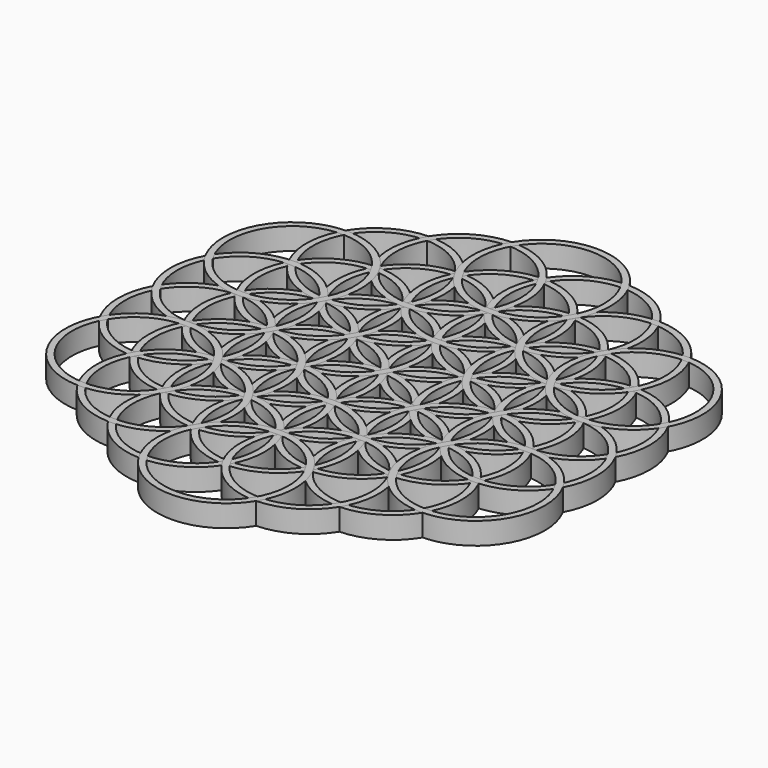
from build123d import *

# Parameters (mm, degrees)
F1_R      = 31.5
F1_R_2    = 28.5
F2_DEPTH  = 10
F3_R      = 31.5
F3_R_2    = 28.5
F4_DEPTH  = 10
F5_COUNT  = 6
F6_R      = 31.5
F6_R_2    = 28.5
F7_DEPTH  = 10
F8_COUNT  = 6
F9_R      = 31.5
F9_R_2    = 28.5
F10_DEPTH = 10
F11_COUNT = 6
F12_R     = 31.5
F12_R_2   = 28.5
F13_DEPTH = 10
F14_COUNT = 6
F15_R     = 31.5
F15_R_2   = 28.5
F16_DEPTH = 10
F17_COUNT = 6
F18_R     = 31.5
F18_R_2   = 28.5
F19_DEPTH = 10
F20_COUNT = 6


with BuildPart() as f2:
    # F1 (on Top) → F2 (new body)
    with BuildSketch(Plane.XY):
        Circle(F1_R)
        Circle(F1_R_2, mode=Mode.SUBTRACT)
    extrude(amount=F2_DEPTH)


with BuildPart() as f4:
    # F3 (on Top) → F4 (new body)
    with BuildSketch(Plane.XY):
        with Locations((0, 30)):
            Circle(F3_R)
        with Locations((0, 30)):
            Circle(F3_R_2, mode=Mode.SUBTRACT)
    extrude(amount=F4_DEPTH)


with BuildPart() as f5_1:
    # F5: instance of F4
    add(f4.part.rotate(Axis((0, 0, -4.683914), (0, 0, -1)), 1 * 360 / F5_COUNT))


with BuildPart() as f5_2:
    # F5: instance of F4
    add(f4.part.rotate(Axis((0, 0, -4.683914), (0, 0, -1)), 2 * 360 / F5_COUNT))


with BuildPart() as f5_3:
    # F5: instance of F4
    add(f4.part.rotate(Axis((0, 0, -4.683914), (0, 0, -1)), 3 * 360 / F5_COUNT))


with BuildPart() as f5_4:
    # F5: instance of F4
    add(f4.part.rotate(Axis((0, 0, -4.683914), (0, 0, -1)), 4 * 360 / F5_COUNT))


with BuildPart() as f5_5:
    # F5: instance of F4
    add(f4.part.rotate(Axis((0, 0, -4.683914), (0, 0, -1)), 5 * 360 / F5_COUNT))


with BuildPart() as f7:
    # F6 (on Top) → F7 (new body)
    with BuildSketch(Plane.XY):
        with Locations((-25.980762, 45)):
            Circle(F6_R)
        with Locations((-25.980762, 45)):
            Circle(F6_R_2, mode=Mode.SUBTRACT)
    extrude(amount=F7_DEPTH)


with BuildPart() as f8_1:
    # F8: instance of F7
    add(f7.part.rotate(Axis((0, 0, -4.683914), (0, 0, -1)), 1 * 360 / F8_COUNT))


with BuildPart() as f8_2:
    # F8: instance of F7
    add(f7.part.rotate(Axis((0, 0, -4.683914), (0, 0, -1)), 2 * 360 / F8_COUNT))


with BuildPart() as f8_3:
    # F8: instance of F7
    add(f7.part.rotate(Axis((0, 0, -4.683914), (0, 0, -1)), 3 * 360 / F8_COUNT))


with BuildPart() as f8_4:
    # F8: instance of F7
    add(f7.part.rotate(Axis((0, 0, -4.683914), (0, 0, -1)), 4 * 360 / F8_COUNT))


with BuildPart() as f8_5:
    # F8: instance of F7
    add(f7.part.rotate(Axis((0, 0, -4.683914), (0, 0, -1)), 5 * 360 / F8_COUNT))


with BuildPart() as f10:
    # F9 (on Top) → F10 (new body)
    with BuildSketch(Plane.XY):
        with Locations((-51.961524, 30)):
            Circle(F9_R)
        with Locations((-51.961524, 30)):
            Circle(F9_R_2, mode=Mode.SUBTRACT)
    extrude(amount=F10_DEPTH)


with BuildPart() as f11_1:
    # F11: instance of F10
    add(f10.part.rotate(Axis((0, 0, -4.683914), (0, 0, -1)), 1 * 360 / F11_COUNT))


with BuildPart() as f11_2:
    # F11: instance of F10
    add(f10.part.rotate(Axis((0, 0, -4.683914), (0, 0, -1)), 2 * 360 / F11_COUNT))


with BuildPart() as f11_3:
    # F11: instance of F10
    add(f10.part.rotate(Axis((0, 0, -4.683914), (0, 0, -1)), 3 * 360 / F11_COUNT))


with BuildPart() as f11_4:
    # F11: instance of F10
    add(f10.part.rotate(Axis((0, 0, -4.683914), (0, 0, -1)), 4 * 360 / F11_COUNT))


with BuildPart() as f11_5:
    # F11: instance of F10
    add(f10.part.rotate(Axis((0, 0, -4.683914), (0, 0, -1)), 5 * 360 / F11_COUNT))


with BuildPart() as f13:
    # F12 (on Top) → F13 (new body)
    with BuildSketch(Plane.XY):
        with Locations((-51.961524, 60)):
            Circle(F12_R)
        with Locations((-51.961524, 60)):
            Circle(F12_R_2, mode=Mode.SUBTRACT)
    extrude(amount=F13_DEPTH)


with BuildPart() as f14_1:
    # F14: instance of F13
    add(f13.part.rotate(Axis((0, 0, -4.683914), (0, 0, -1)), 1 * 360 / F14_COUNT))


with BuildPart() as f14_2:
    # F14: instance of F13
    add(f13.part.rotate(Axis((0, 0, -4.683914), (0, 0, -1)), 2 * 360 / F14_COUNT))


with BuildPart() as f14_3:
    # F14: instance of F13
    add(f13.part.rotate(Axis((0, 0, -4.683914), (0, 0, -1)), 3 * 360 / F14_COUNT))


with BuildPart() as f14_4:
    # F14: instance of F13
    add(f13.part.rotate(Axis((0, 0, -4.683914), (0, 0, -1)), 4 * 360 / F14_COUNT))


with BuildPart() as f14_5:
    # F14: instance of F13
    add(f13.part.rotate(Axis((0, 0, -4.683914), (0, 0, -1)), 5 * 360 / F14_COUNT))


with BuildPart() as f16:
    # F15 (on Top) → F16 (new body)
    with BuildSketch(Plane.XY):
        with Locations((-25.980762, 75)):
            Circle(F15_R)
        with Locations((-25.980762, 75)):
            Circle(F15_R_2, mode=Mode.SUBTRACT)
    extrude(amount=F16_DEPTH)


with BuildPart() as f17_1:
    # F17: instance of F16
    add(f16.part.rotate(Axis((0, 0, -4.683914), (0, 0, -1)), 1 * 360 / F17_COUNT))


with BuildPart() as f17_2:
    # F17: instance of F16
    add(f16.part.rotate(Axis((0, 0, -4.683914), (0, 0, -1)), 2 * 360 / F17_COUNT))


with BuildPart() as f17_3:
    # F17: instance of F16
    add(f16.part.rotate(Axis((0, 0, -4.683914), (0, 0, -1)), 3 * 360 / F17_COUNT))


with BuildPart() as f17_4:
    # F17: instance of F16
    add(f16.part.rotate(Axis((0, 0, -4.683914), (0, 0, -1)), 4 * 360 / F17_COUNT))


with BuildPart() as f17_5:
    # F17: instance of F16
    add(f16.part.rotate(Axis((0, 0, -4.683914), (0, 0, -1)), 5 * 360 / F17_COUNT))


with BuildPart() as f19:
    # F18 (on Top) → F19 (new body)
    with BuildSketch(Plane.XY):
        with Locations((0, 90)):
            Circle(F18_R)
        with Locations((0, 90)):
            Circle(F18_R_2, mode=Mode.SUBTRACT)
    extrude(amount=F19_DEPTH)


with BuildPart() as f20_1:
    # F20: instance of F19
    add(f19.part.rotate(Axis((0, 0, -4.683914), (0, 0, -1)), 1 * 360 / F20_COUNT))


with BuildPart() as f20_2:
    # F20: instance of F19
    add(f19.part.rotate(Axis((0, 0, -4.683914), (0, 0, -1)), 2 * 360 / F20_COUNT))


with BuildPart() as f20_3:
    # F20: instance of F19
    add(f19.part.rotate(Axis((0, 0, -4.683914), (0, 0, -1)), 3 * 360 / F20_COUNT))


with BuildPart() as f20_4:
    # F20: instance of F19
    add(f19.part.rotate(Axis((0, 0, -4.683914), (0, 0, -1)), 4 * 360 / F20_COUNT))


with BuildPart() as f20_5:
    # F20: instance of F19
    add(f19.part.rotate(Axis((0, 0, -4.683914), (0, 0, -1)), 5 * 360 / F20_COUNT))


solid = Compound([f2.part, f4.part, f5_1.part, f5_2.part, f5_3.part, f5_4.part, f5_5.part, f7.part, f8_1.part, f8_2.part, f8_3.part, f8_4.part, f8_5.part, f10.part, f11_1.part, f11_2.part, f11_3.part, f11_4.part, f11_5.part, f13.part, f14_1.part, f14_2.part, f14_3.part, f14_4.part, f14_5.part, f16.part, f17_1.part, f17_2.part, f17_3.part, f17_4.part, f17_5.part, f19.part, f20_1.part, f20_2.part, f20_3.part, f20_4.part, f20_5.part])
